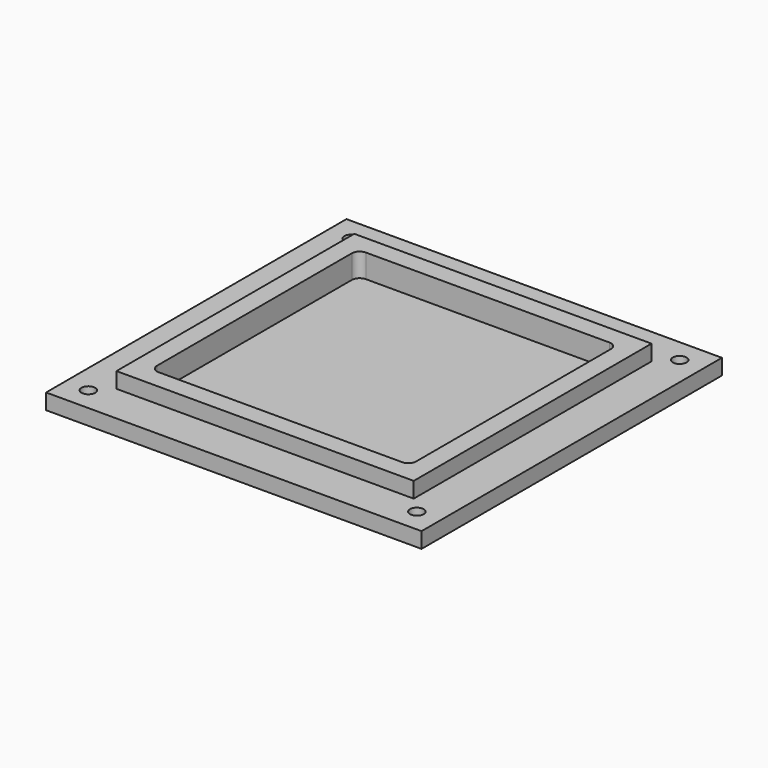
from build123d import *

# Parameters (mm, degrees)
F0_W     = 304.8
F0_H     = 304.8
F1_DEPTH = 25.4
F3_DEPTH = 19.05
F4_W     = 304.8
F4_H     = 304.8
F4_W_2   = 241.3
F4_H_2   = 241.3
F5_DEPTH = 12.7
F7_D     = 11.1125
F9_DEPTH = 6.35


with BuildPart() as f1:
    # F0 (on Top) → F1 (new body)
    with BuildSketch(Plane.XY):
        Rectangle(F0_W, F0_H)
    extrude(amount=F1_DEPTH)

    # F2 (on face) → F3 (cut)
    with BuildSketch(Plane.XY.offset(25.4)):
        with BuildLine():
            Line((98.8314, 105.1814), (-98.8314, 105.1814))
            ThreePointArc((-98.8314, 105.1814), (-103.321528, 103.321528), (-105.1814, 98.8314))
            Line((-105.1814, 98.8314), (-105.1814, -98.8314))
            ThreePointArc((-105.1814, -98.8314), (-103.321528, -103.321528), (-98.8314, -105.1814))
            Line((-98.8314, -105.1814), (98.8314, -105.1814))
            ThreePointArc((98.8314, -105.1814), (103.321528, -103.321528), (105.1814, -98.8314))
            Line((105.1814, -98.8314), (105.1814, 98.8314))
            ThreePointArc((105.1814, 98.8314), (103.321528, 103.321528), (98.8314, 105.1814))
        make_face()
    extrude(amount=-F3_DEPTH, mode=Mode.SUBTRACT)

    # F4 (on face) → F5 (cut)
    with BuildSketch(Plane.XY.offset(25.4)):
        Rectangle(F4_W, F4_H)
        Rectangle(F4_W_2, F4_H_2, mode=Mode.SUBTRACT)
    extrude(amount=-F5_DEPTH, mode=Mode.SUBTRACT)

    # F7 (through all)
    with Locations(Plane.XY.offset(12.7)):
        with Locations((-133.35, 133.35), (133.35, 133.35), (133.35, -133.35), (-133.35, -133.35)):
            Hole(F7_D / 2)

    # F8 (on face) → F9 (cut)
    with BuildSketch(Plane(origin=(0, 0, 0), x_dir=(1, 0, 0), z_dir=(0, 0, -1))):
        with BuildLine():
            Line((-140.49375, 124.61875), (-126.20625, 124.61875))
            ThreePointArc((-126.20625, 124.61875), (-125.083718, 125.083718), (-124.61875, 126.20625))
            Line((-124.61875, 126.20625), (-124.61875, 140.49375))
            ThreePointArc((-124.61875, 140.49375), (-125.083718, 141.616282), (-126.20625, 142.08125))
            Line((-126.20625, 142.08125), (-140.49375, 142.08125))
            ThreePointArc((-140.49375, 142.08125), (-141.616282, 141.616282), (-142.08125, 140.49375))
            Line((-142.08125, 140.49375), (-142.08125, 126.20625))
            ThreePointArc((-142.08125, 126.20625), (-141.616282, 125.083718), (-140.49375, 124.61875))
        make_face()
        with BuildLine():
            ThreePointArc((124.61875, 126.20625), (125.083718, 125.083718), (126.20625, 124.61875))
            Line((126.20625, 124.61875), (140.49375, 124.61875))
            ThreePointArc((140.49375, 124.61875), (141.616282, 125.083718), (142.08125, 126.20625))
            Line((142.08125, 126.20625), (142.08125, 140.49375))
            ThreePointArc((142.08125, 140.49375), (141.616282, 141.616282), (140.49375, 142.08125))
            Line((140.49375, 142.08125), (126.20625, 142.08125))
            ThreePointArc((126.20625, 142.08125), (125.083718, 141.616282), (124.61875, 140.49375))
            Line((124.61875, 140.49375), (124.61875, 126.20625))
        make_face()
        with BuildLine():
            ThreePointArc((124.61875, -140.49375), (125.083718, -141.616282), (126.20625, -142.08125))
            Line((126.20625, -142.08125), (140.49375, -142.08125))
            ThreePointArc((140.49375, -142.08125), (141.616282, -141.616282), (142.08125, -140.49375))
            Line((142.08125, -140.49375), (142.08125, -126.20625))
            ThreePointArc((142.08125, -126.20625), (141.616282, -125.083718), (140.49375, -124.61875))
            Line((140.49375, -124.61875), (126.20625, -124.61875))
            ThreePointArc((126.20625, -124.61875), (125.083718, -125.083718), (124.61875, -126.20625))
            Line((124.61875, -126.20625), (124.61875, -140.49375))
        make_face()
        with BuildLine():
            Line((-140.49375, -142.08125), (-126.20625, -142.08125))
            ThreePointArc((-126.20625, -142.08125), (-125.083718, -141.616282), (-124.61875, -140.49375))
            Line((-124.61875, -140.49375), (-124.61875, -126.20625))
            ThreePointArc((-124.61875, -126.20625), (-125.083718, -125.083718), (-126.20625, -124.61875))
            Line((-126.20625, -124.61875), (-140.49375, -124.61875))
            ThreePointArc((-140.49375, -124.61875), (-141.616282, -125.083718), (-142.08125, -126.20625))
            Line((-142.08125, -126.20625), (-142.08125, -140.49375))
            ThreePointArc((-142.08125, -140.49375), (-141.616282, -141.616282), (-140.49375, -142.08125))
        make_face()
    extrude(amount=-F9_DEPTH, mode=Mode.SUBTRACT)


solid = f1.part
